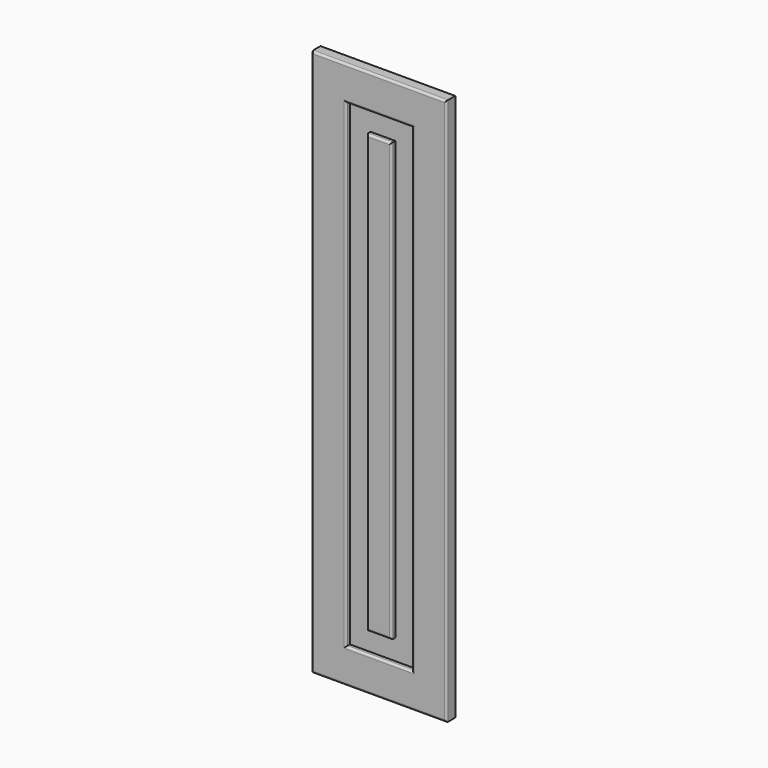
from build123d import *

# Parameters (mm, degrees)
F0_W      = 44.656470418
F0_H      = 33.8078811765
F1_DEPTH  = 16
F2_DEPTH  = 796
F3_DEPTH  = 196
F4_W      = 68.9578056335
F4_H      = 493.6993122101
F5_DEPTH  = 7
F6_DEPTH  = 9.7
F7_DEPTH  = 99.33
F8_DEPTH  = 99.33
F9_DEPTH  = 17.34
F10_DEPTH = 102.97
F11_W     = 35.2807044983
F11_H     = 492.0964837074
F12_DEPTH = 7
F13_DEPTH = 37.27
F14_DEPTH = 6.58
F15_DEPTH = 106.63
F16_DEPTH = 5.87
F17_R     = 3


with BuildPart() as f1:
    # F0 (on Front) → F1 (new body)
    with BuildSketch(Plane.XZ):
        with Locations((22.328235209, 16.9039405882)):
            Rectangle(F0_W, F0_H)
    extrude(amount=F1_DEPTH)

    # F2 (add): a face of the model
    f2_faces = [f1.faces().sort_by_distance(p)[0] for p in [
        (22.328235209, -8, 0),
    ]]
    extrude(f2_faces, amount=-F2_DEPTH)

    # F3 (add): a face of the model
    f3_faces = [f1.faces().sort_by_distance(p)[0] for p in [
        (0, -8, 398),
    ]]
    extrude(f3_faces, amount=-F3_DEPTH)

    # F4 (on face) → F5 (cut)
    with BuildSketch(Plane.XZ.offset(16)):
        with Locations((94.1769480705, 399.8196721077)):
            Rectangle(F4_W, F4_H)
    extrude(amount=-F5_DEPTH, mode=Mode.SUBTRACT)

    # F6 (cut): a face of the model
    f6_faces = [f1.faces().sort_by_distance(p)[0] for p in [
        (59.6980452538, -12.5, 399.8196721077),
    ]]
    extrude(f6_faces, amount=-F6_DEPTH, mode=Mode.SUBTRACT)

    # F7 (add): a face of the model
    f7_faces = [f1.faces().sort_by_distance(p)[0] for p in [
        (89.3269480705, -12.5, 646.6693282127),
    ]]
    extrude(f7_faces, amount=-F7_DEPTH)

    # F8 (cut): a face of the model
    f8_faces = [f1.faces().sort_by_distance(p)[0] for p in [
        (89.3269480705, -12.5, 646.6693282127),
    ]]
    extrude(f8_faces, amount=-F8_DEPTH, mode=Mode.SUBTRACT)

    # F9 (cut): a face of the model
    f9_faces = [f1.faces().sort_by_distance(p)[0] for p in [
        (128.6558508873, -12.5, 449.4846721077),
    ]]
    extrude(f9_faces, amount=-F9_DEPTH, mode=Mode.SUBTRACT)

    # F10 (cut): a face of the model
    f10_faces = [f1.faces().sort_by_distance(p)[0] for p in [
        (97.9969480705, -12.5, 152.9700160027),
    ]]
    extrude(f10_faces, amount=-F10_DEPTH, mode=Mode.SUBTRACT)

    # F11 (on face) → F12 (join)
    with BuildSketch(Plane.XZ.offset(9)):
        with Locations((91.7714834213, 432.6795041561)):
            Rectangle(F11_W, F11_H)
    extrude(amount=F12_DEPTH)

    # F13 (add): a face of the model
    f13_faces = [f1.faces().sort_by_distance(p)[0] for p in [
        (91.7714834213, -12.5, 678.7277460098),
    ]]
    extrude(f13_faces, amount=F13_DEPTH)

    # F14 (add): a face of the model
    f14_faces = [f1.faces().sort_by_distance(p)[0] for p in [
        (109.4118356705, -12.5, 451.3145041561),
    ]]
    extrude(f14_faces, amount=F14_DEPTH)

    # F15 (add): a face of the model
    f15_faces = [f1.faces().sort_by_distance(p)[0] for p in [
        (95.0614834213, -12.5, 186.6312623024),
    ]]
    extrude(f15_faces, amount=F15_DEPTH)

    # F16 (cut): a face of the model
    f16_faces = [f1.faces().sort_by_distance(p)[0] for p in [
        (74.1311311722, -12.5, 397.9995041561),
    ]]
    extrude(f16_faces, amount=-F16_DEPTH, mode=Mode.SUBTRACT)

    # F17
    f17_edges = [f1.edges().sort_by_distance(p)[0] for p in [
        (0, -16, 398),
        (98, -16, 0),
        (196, -16, 398),
        (98, -16, 796),
        (145.995851, -16, 397.999672),
        (97.996948, -16, 50.000016),
        (49.998045, -16, 397.999672),
        (97.996948, -16, 745.999328),
        (97.996483, -16, 715.997746),
        (115.991836, -16, 397.999504),
        (97.996483, -16, 80.001262),
        (80.001131, -16, 397.999504),
    ]]
    fillet(f17_edges, radius=F17_R)


solid = f1.part
